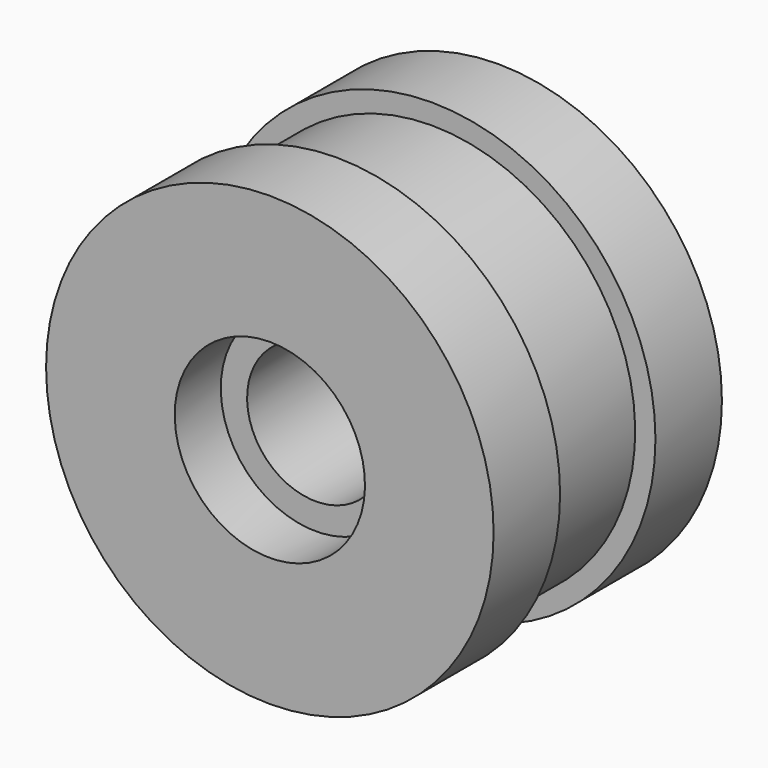
from build123d import *


with BuildPart() as f1:
    # F0 (on Right) → F1 (revolve)
    with BuildSketch(Plane.YZ):
        Polygon((-18.7706, 15.1765), (0, 15.1765), (18.7706, 15.1765), (18.7706, 20.9804), (31.4706, 20.9804), (31.4706, 49.3522), (13.1445, 49.3522), (13.1445, 44.8818), (-13.1445, 44.8818), (-13.1445, 49.3522), (-31.4706, 49.3522), (-31.4706, 20.9804), (-18.7706, 20.9804), align=None)
    revolve(axis=Axis((0, -0.984378, 0), (0, 1, 0)))


solid = f1.part
